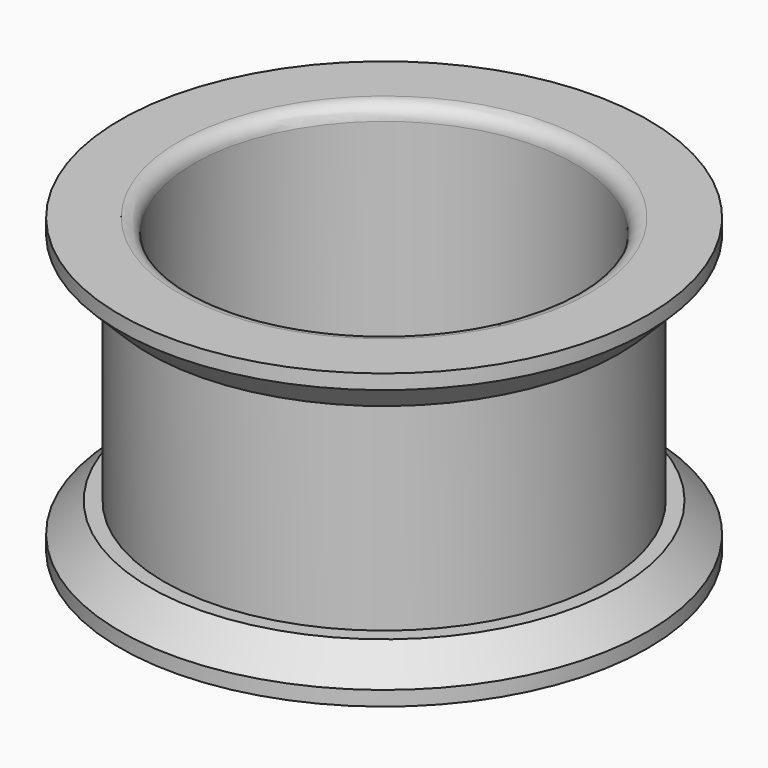
from build123d import *

# Parameters (mm, degrees)
F0_R      = 7.5
F0_R_2    = 6.5
F1_DEPTH  = 10
F2_R      = 9
F2_R_2    = 7.5
F3_DEPTH  = 1.5
F4_SIZE   = 1
F5_R      = 9
F5_R_2    = 7.5
F6_DEPTH  = 1.5
F7_SIZE   = 1
F6_FACE_R = 6.5
F8_DEPTH  = 25
F9_R      = 0.5
F10_R     = 0.5


with BuildPart() as f1:
    # F0 (on Top) → F1 (new body)
    with BuildSketch(Plane.XY):
        Circle(F0_R)
        Circle(F0_R_2, mode=Mode.SUBTRACT)
    extrude(amount=F1_DEPTH)

    # F2 (on face) → F3 (join)
    with BuildSketch(Plane.XY.offset(10)):
        Circle(F2_R)
        Circle(F2_R_2, mode=Mode.SUBTRACT)
    extrude(amount=-F3_DEPTH)

    # F4
    f4_edges = [f1.edges().sort_by_distance(p)[0] for p in [
        (-9, 0, 8.5),
    ]]
    chamfer(f4_edges, length=F4_SIZE)

    # F5 (on face) → F6 (join)
    with BuildSketch(Plane(origin=(0, 0, 0), x_dir=(1, 0, 0), z_dir=(0, 0, -1))):
        Circle(F5_R)
        Circle(F5_R)
        Circle(F5_R_2, mode=Mode.SUBTRACT)
    extrude(amount=-F6_DEPTH)

    # F7
    f7_edges = [f1.edges().sort_by_distance(p)[0] for p in [
        (-9, 0, 1.5),
    ]]
    chamfer(f7_edges, length=F7_SIZE)

    # F6_face (on face) → F8 (cut)
    with BuildSketch(Plane.XY.offset(1.5)):
        Circle(F6_FACE_R)
    extrude(amount=-F8_DEPTH, mode=Mode.SUBTRACT)

    # F9
    f9_edges = [f1.edges().sort_by_distance(p)[0] for p in [
        (-6.5, 0, 0),
    ]]
    fillet(f9_edges, radius=F9_R)

    # F10
    f10_edges = [f1.edges().sort_by_distance(p)[0] for p in [
        (-6.5, 0, 10),
    ]]
    fillet(f10_edges, radius=F10_R)


solid = f1.part
